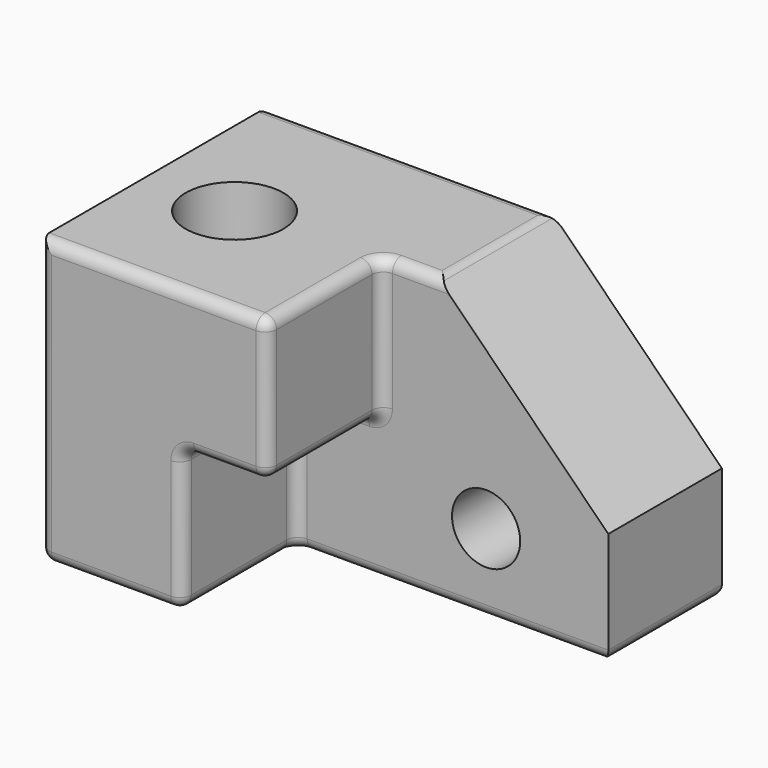
from build123d import *

# Parameters (mm, degrees)
F1_DEPTH = 127
F0_R     = 15.24
F2_DEPTH = 63.5
F3_SIZE  = 76.2
F4_R     = 5.08
F5_R     = 21.8454562642
F6_DEPTH = 228.6


with BuildPart() as f1:
    # F0 (on Front) → F1 (new body)
    with BuildSketch(Plane.XZ):
        Polygon((-26.7983935773, 0), (-26.7983935773, 63.5), (-128.3983935773, 63.5), (-128.3983935773, -63.5), (-64.8983935773, -63.5), (-64.8983935773, 0), align=None)
    extrude(amount=F1_DEPTH)

    # F0 (on Front) → F2 (join)
    with BuildSketch(Plane.XZ):
        Polygon((74.8016064227, -63.5), (74.8016064227, 63.5), (-26.7983935773, 63.5), (-26.7983935773, 0), (-64.8983935773, 0), (-64.8983935773, -63.5), align=None)
        with Locations((20.1709009707, -28.3607393503)):
            Circle(F0_R, mode=Mode.SUBTRACT)
    extrude(amount=F2_DEPTH)

    # F3
    f3_edges = [f1.edges().sort_by_distance(p)[0] for p in [
        (74.801606, -31.75, 63.5),
    ]]
    chamfer(f3_edges, length=F3_SIZE)

    # F4
    f4_edges = [f1.edges().sort_by_distance(p)[0] for p in [
        (-1.398394, -31.75, 63.5),
        (-128.398394, 0, 0),
        (-26.798394, -63.5, 31.75),
        (-45.848394, -63.5, 0),
        (-64.898394, -95.25, 0),
        (-26.798394, -95.25, 63.5),
        (-14.098394, -63.5, 63.5),
        (-64.898394, 0, 63.5),
        (-96.648394, -127, -63.5),
        (-128.398394, -127, 0),
        (-77.598394, -127, 63.5),
        (-64.898394, -95.25, -63.5),
        (-45.848394, -127, 0),
        (-64.898394, -127, -31.75),
        (-64.898394, -63.5, -31.75),
        (-128.398394, -63.5, -63.5),
        (-26.798394, -127, 31.75),
        (-26.798394, -95.25, 0),
        (74.801606, -31.75, -63.5),
        (-26.798394, 0, -63.5),
        (4.951606, -63.5, -63.5),
    ]]
    fillet(f4_edges, radius=F4_R)

    # F5 (on face) → F6 (cut)
    with BuildSketch(Plane.XY.offset(63.5)):
        with Locations((-88.2410332561, -68.5802102089)):
            Circle(F5_R)
    extrude(amount=-F6_DEPTH, mode=Mode.SUBTRACT)


solid = f1.part
